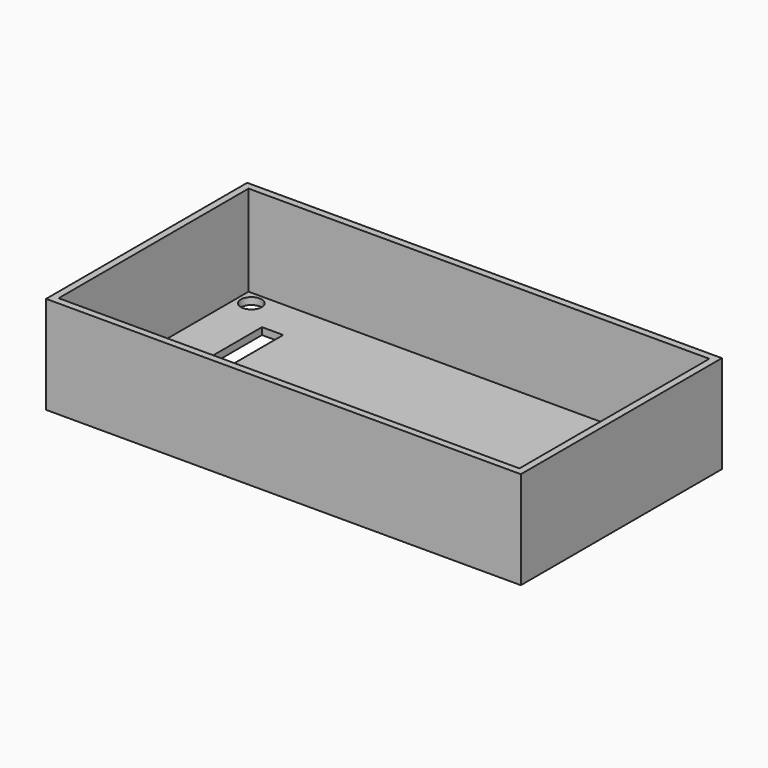
from build123d import *

# Parameters (mm, degrees)
SKETCH023_W     = 68
SKETCH023_H     = 36
SKETCH023_W_2   = 3.04
SKETCH023_H_2   = 13.335
PAD011_DEPTH    = 1
SKETCH024_W     = 68
SKETCH024_H     = 36
SKETCH024_W_2   = 66
SKETCH024_H_2   = 34
PAD012_DEPTH    = 13
SKETCH039_R     = 1.5
POCKET005_DEPTH = 1.001


with BuildPart() as part:
    # Sketch023 → Pad011 (new body)
    with BuildSketch(Plane.XY):
        Rectangle(SKETCH023_W, SKETCH023_H)
        with Locations((-24.94, 4.5625)):
            Rectangle(SKETCH023_W_2, SKETCH023_H_2, mode=Mode.SUBTRACT)
    extrude(amount=PAD011_DEPTH)

    # Sketch024 (on Face10 of Pad011) → Pad012 (join)
    with BuildSketch(Plane.XY.offset(1)):
        Rectangle(SKETCH024_W, SKETCH024_H)
        Rectangle(SKETCH024_W_2, SKETCH024_H_2, mode=Mode.SUBTRACT)
    extrude(amount=PAD012_DEPTH)

    # Sketch039 (on Face15 of Pad012) → Pocket005 (cut, through all)
    with BuildSketch(Plane.XY.offset(1)):
        with Locations((-31, 15)):
            Circle(SKETCH039_R)
        with Locations((31, 15)):
            Circle(SKETCH039_R)
        with Locations((31, -15)):
            Circle(SKETCH039_R)
        with Locations((-31, -15)):
            Circle(SKETCH039_R)
    extrude(amount=-POCKET005_DEPTH, mode=Mode.SUBTRACT)


with BuildPart() as part_1:
    # Body003 placement: moved
    add(part.part.moved(Location((100, 0, 0))))


solid = part_1.part
